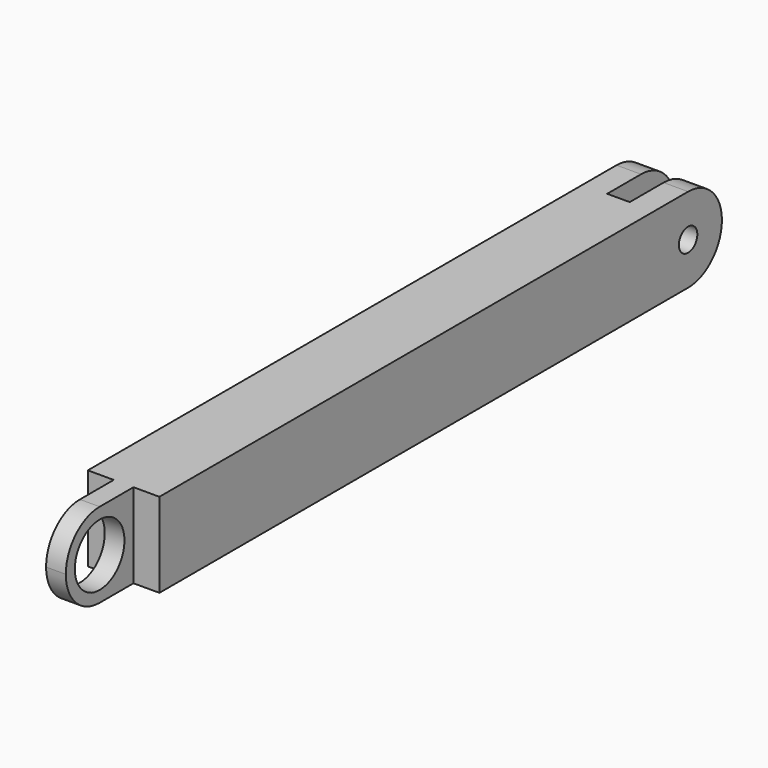
from build123d import *

# Parameters (mm, degrees)
F1_DEPTH = 30
F2_R     = 11
F2_R_2   = 4.1
F3_DEPTH = 25.4


with BuildPart() as f1:
    # F0 (on Top) → F1 (new body)
    with BuildSketch(Plane.XY):
        Polygon((-4, 124.7), (-12.7, 124.7), (-12.7, -124.7), (-3.5, -124.7), (-3.5, -154.7), (3.5, -154.7), (3.5, -124.7), (12.7, -124.7), (12.7, 124.7), (4, 124.7), (4, 94.7), (-4, 94.7), align=None)
    extrude(amount=F1_DEPTH)

    # F2 (on face) → F3 (cut, through all)
    with BuildSketch(Plane(origin=(-12.7, 0, 0), x_dir=(0, -1, 0), z_dir=(-1, 0, 0))):
        with BuildLine():
            ThreePointArc((139.7, 30), (150.306602, 25.606602), (154.7, 15))
            Line((154.7, 15), (154.7, 30))
            Line((154.7, 30), (139.7, 30))
        make_face()
        with BuildLine():
            ThreePointArc((154.7, 15), (150.306602, 4.393398), (139.7, 0))
            Line((139.7, 0), (154.7, 0))
            Line((154.7, 0), (154.7, 15))
        make_face()
        with Locations((139.7, 15)):
            Circle(F2_R)
        with Locations((-109.7, 15)):
            Circle(F2_R_2)
        with BuildLine():
            ThreePointArc((-124.7, 15), (-120.306602, 25.606602), (-109.7, 30))
            Line((-109.7, 30), (-124.7, 30))
            Line((-124.7, 30), (-124.7, 15))
        make_face()
        with BuildLine():
            Line((-124.7, 0), (-109.7, 0))
            ThreePointArc((-109.7, 0), (-120.306602, 4.393398), (-124.7, 15))
            Line((-124.7, 15), (-124.7, 0))
        make_face()
    extrude(amount=-F3_DEPTH, mode=Mode.SUBTRACT)


solid = f1.part
